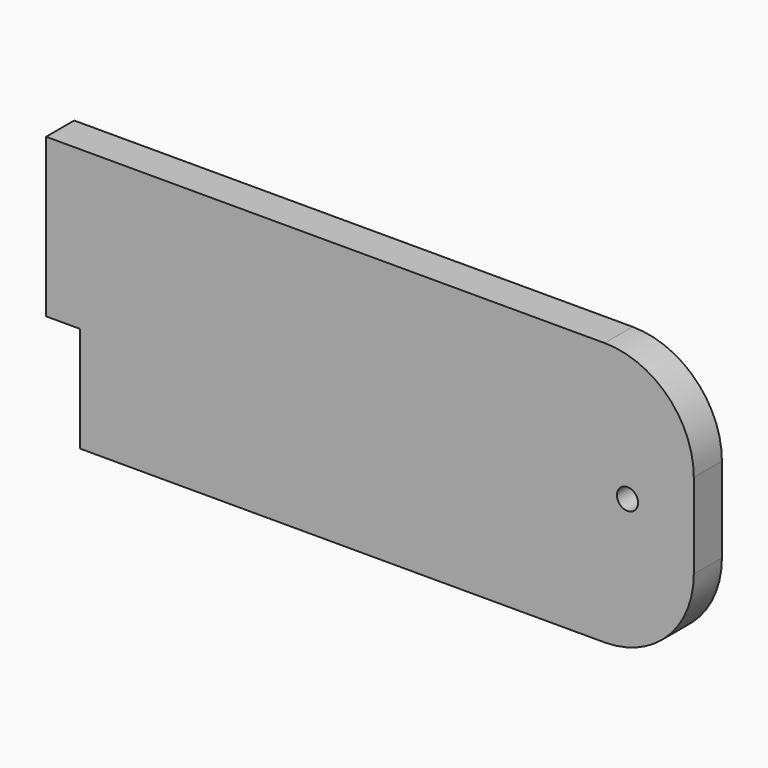
from build123d import *

# Parameters (mm, degrees)
F0_W     = 7.8999367909
F0_H     = 15
F0_W_2   = 1.9381828606
F0_H_2   = 9
F1_DEPTH = 2
F2_R     = 5.08
F3_D     = 1.2
F3_DEPTH = 12.7
F3_TIP   = 0.3605163714


with BuildPart() as f1:
    # F0 (on Front) → F1 (new body)
    with BuildSketch(Plane.XZ):
        with Locations((18.8592814558, -0.3737040295)):
            Rectangle(F0_W, F0_H)
        Polygon((-12.1191004291, -7.8737040295), (14.9093130603, -7.8737040295), (14.9093130603, 7.1262959705), (-12.1191004291, 7.1262959705), (-12.1191004291, -1.8737040295), align=None)
        with Locations((-13.0881918594, 2.6262959705)):
            Rectangle(F0_W_2, F0_H_2)
    extrude(amount=F1_DEPTH)

    # F2
    f2_edges = [f1.edges().sort_by_distance(p)[0] for p in [
        (22.80925, -1, -7.873704),
        (22.80925, -1, 7.126296),
    ]]
    fillet(f2_edges, radius=F2_R)

    # F3
    with Locations(Plane(origin=(0, 0, 0), x_dir=(1, 0, 0), z_dir=(0, 1, 0))):
        with Locations((19.0357716603, 0.2653072295)):
            Hole(F3_D / 2, depth=F3_DEPTH)
            with Locations((0, 0, -(F3_DEPTH + F3_TIP / 2))):  # 118° drill point
                Cone(0, F3_D / 2, F3_TIP, mode=Mode.SUBTRACT)


solid = f1.part
